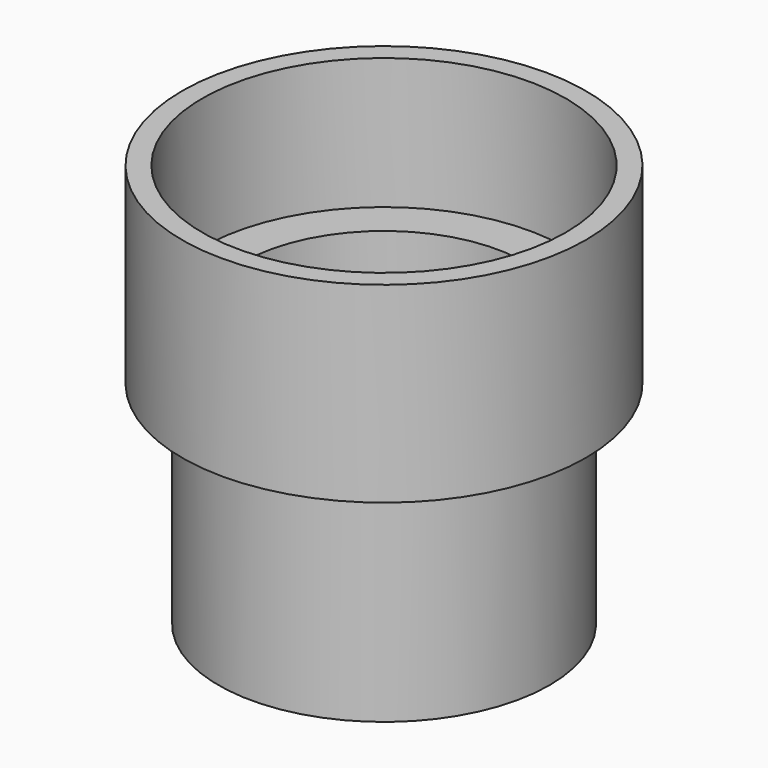
from build123d import *

# Parameters (mm, degrees)
F1_DEPTH = 2
F2_DEPTH = 3
F3_R     = 8.2
F4_DEPTH = 7.5
F5_R     = 8.2
F5_R_2   = 7
F6_DEPTH = 20
F7_R     = 9
F7_R_2   = 7
F8_DEPTH = 6.5


with BuildPart() as f1:
    # F0 (on Top) → F1 (new body)
    with BuildSketch(Plane.XY):
        with BuildLine():
            Line((0, 9), (0, 10))
            ThreePointArc((0, 10), (-10, 0), (0, -10))
            Line((0, -10), (0, -9))
            ThreePointArc((0, -9), (-9, 0), (0, 9))
        make_face()
    extrude(amount=F1_DEPTH)

    # F0 (on Top) → F2 (join)
    with BuildSketch(Plane.XY):
        with BuildLine():
            ThreePointArc((0, -10), (7.0710678119, -7.0710678119), (10, 0))
            ThreePointArc((10, 0), (7.0710678119, 7.0710678119), (0, 10))
            Line((0, 10), (0, 9))
            ThreePointArc((0, 9), (6.3639610307, 6.3639610307), (9, 0))
            ThreePointArc((9, 0), (6.3639610307, -6.3639610307), (0, -9))
            Line((0, -9), (0, -10))
        make_face()
    extrude(amount=F2_DEPTH)

    # F3 (on face) → F4 (join)
    with BuildSketch(Plane.XY.offset(2)):
        with BuildLine():
            Line((0, 9), (0, 10))
            ThreePointArc((0, 10), (-10, 0), (0, -10))
            Line((0, -10), (0, -9))
            ThreePointArc((0, -9), (-9, 0), (0, 9))
        make_face()
        with BuildLine():
            ThreePointArc((0, -10), (7.0710678119, -7.0710678119), (10, 0))
            ThreePointArc((10, 0), (7.0710678119, 7.0710678119), (0, 10))
            Line((0, 10), (0, 9))
            ThreePointArc((0, 9), (-9, 0), (0, -9))
            Line((0, -9), (0, -10))
        make_face()
        Circle(F3_R, mode=Mode.SUBTRACT)
        with BuildLine():
            ThreePointArc((0, -10), (7.0710678119, -7.0710678119), (10, 0))
            ThreePointArc((10, 0), (7.0710678119, 7.0710678119), (0, 10))
            Line((0, 10), (0, 9))
            ThreePointArc((0, 9), (-9, 0), (0, -9))
            Line((0, -9), (0, -10))
        make_face()
        Circle(F3_R, mode=Mode.SUBTRACT)
    extrude(amount=F4_DEPTH)

    # F5 (on face) → F6 (join)
    with BuildSketch(Plane.XY.offset(9.5)):
        Circle(F5_R)
        Circle(F5_R_2, mode=Mode.SUBTRACT)
    extrude(amount=-F6_DEPTH)

    # F7 (on face) → F8 (cut)
    with BuildSketch(Plane.XY.offset(9.5)):
        Circle(F7_R)
        Circle(F7_R_2, mode=Mode.SUBTRACT)
    extrude(amount=-F8_DEPTH, mode=Mode.SUBTRACT)


solid = f1.part
